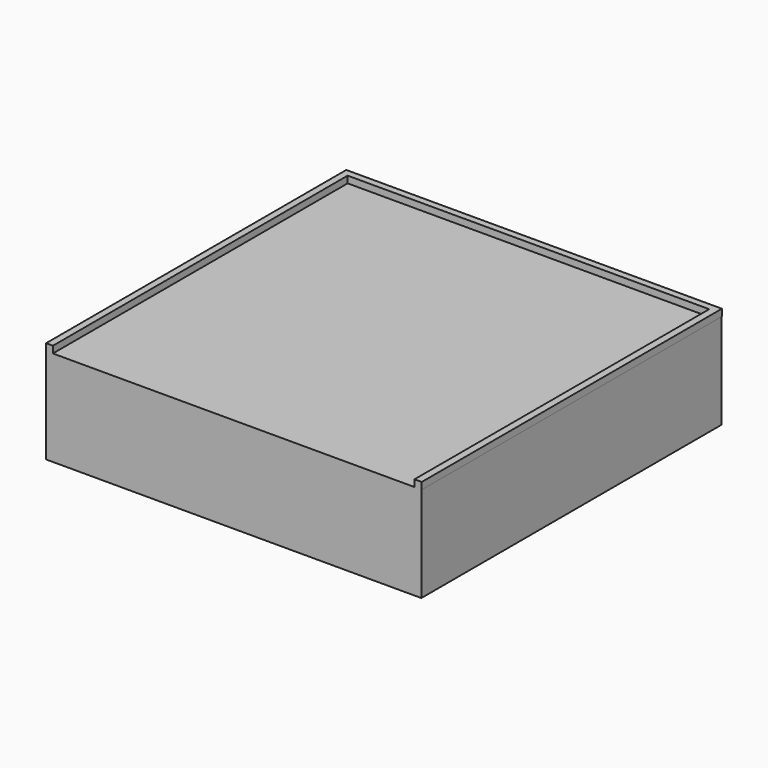
from build123d import *

# Parameters (mm, degrees)
F2_DEPTH = 1
F0_W     = 55
F0_H     = 55
F3_DEPTH = 14


with BuildPart() as f2:
    # F1 (on face) → F2 (new body)
    with BuildSketch(Plane.XY):
        Polygon((1, -1), (54, -1), (54, -55), (55.060755, -55), (55.060755, 0), (0, 0), (0, -55), (1, -55), align=None)
    extrude(amount=F2_DEPTH)

    # F0 (on Top) → F3 (join)
    with BuildSketch(Plane.XY):
        with Locations((27.5, -27.5)):
            Rectangle(F0_W, F0_H)
    extrude(amount=-F3_DEPTH)


solid = f2.part
